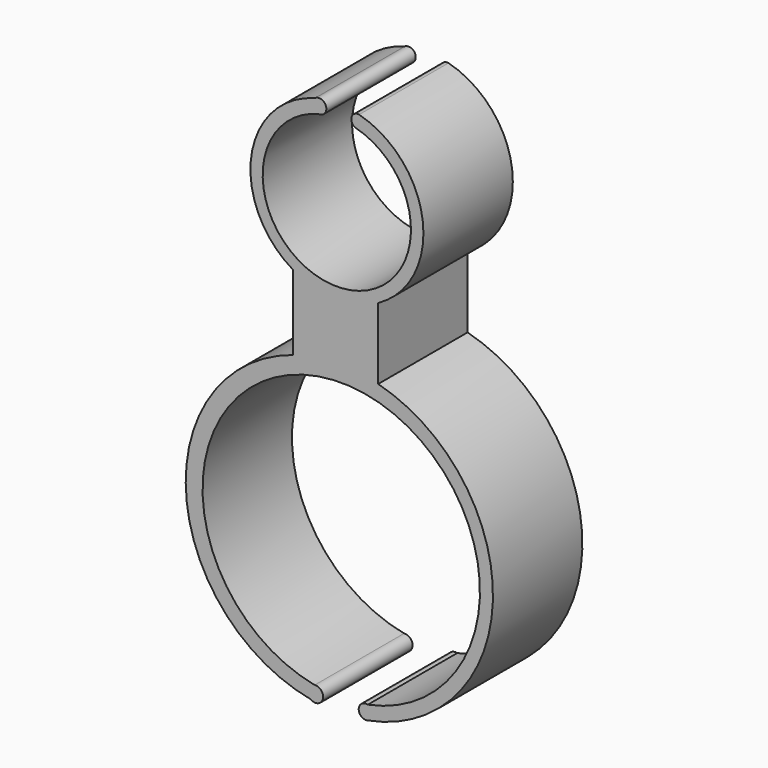
from build123d import *

# Parameters (mm, degrees)
F1_DEPTH = 25.4


with BuildPart() as f1:
    # F0 (on Front) → F1 (new body)
    with BuildSketch(Plane.XZ):
        with BuildLine():
            ThreePointArc((-4.604892, 49.502589), (-2.873783, 51.557862), (-5.429017, 52.389527))
            ThreePointArc((-5.429017, 52.389527), (-19.88635, 36.044253), (-10.347662, 16.417845))
            ThreePointArc((-10.347662, 16.417845), (-0.728117, 13.721982), (8.974505, 16.101576))
            ThreePointArc((8.974505, 16.101576), (19.116366, 35.710785), (4.644182, 52.382148))
            ThreePointArc((4.644182, 52.382148), (2.930412, 51.33812), (3.741476, 49.502589))
            ThreePointArc((3.741476, 49.502589), (-0.431708, 16.325071), (-4.604892, 49.502589))
        make_face()
        with BuildLine():
            ThreePointArc((8.974505, 16.101576), (-0.728117, 13.721982), (-10.347662, 16.417845))
            Line((-10.347662, 16.417845), (-10.347662, 0))
            Line((-10.347662, 0), (-10.347662, -0.5928))
            ThreePointArc((-10.347662, -0.5928), (-0.720338, 1.009935), (8.974505, -0.114421))
            Line((8.974505, -0.114421), (8.974505, 0))
            Line((8.974505, 0), (8.974505, 16.101576))
        make_face()
        with BuildLine():
            ThreePointArc((8.974505, -0.114421), (-0.720338, 1.009935), (-10.347662, -0.5928))
            ThreePointArc((-10.347662, -0.5928), (-34.712825, -35.967741), (-6.331726, -68.209961))
            ThreePointArc((-6.331726, -68.209961), (-3.589882, -67.257071), (-5.468309, -65.044105))
            ThreePointArc((-5.468309, -65.044105), (0.575612, -2.578426), (6.619533, -65.044105))
            ThreePointArc((6.619533, -65.044105), (4.547076, -66.627033), (6.619533, -68.209961))
            ThreePointArc((6.619533, -68.209961), (35.041193, -35.104386), (8.974505, -0.114421))
        make_face()
    extrude(amount=F1_DEPTH)


solid = f1.part
